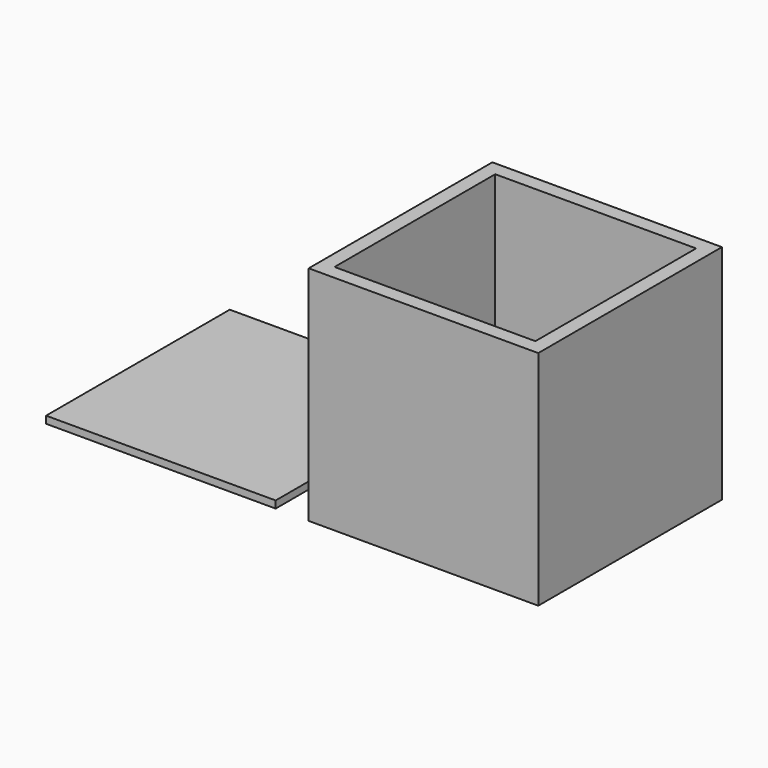
from build123d import *

# Parameters (mm, degrees)
F0_W     = 101.6
F0_H     = 101.6
F1_DEPTH = 3.175
F0_W_2   = 88.9
F0_H_2   = 88.9
F2_DEPTH = 98.425


with BuildPart() as f1:
    # F0 (on Top) → F1 (new body)
    with BuildSketch(Plane.XY):
        with Locations((-76.689121, 3.947296)):
            Rectangle(F0_W, F0_H)
    extrude(amount=F1_DEPTH)


with BuildPart() as f2:
    # F0 (on Top) → F2 (new body)
    with BuildSketch(Plane.XY):
        with Locations((39.584528, 3.886014)):
            Rectangle(F0_W, F0_H)
        with Locations((39.584528, 3.886014)):
            Rectangle(F0_W_2, F0_H_2, mode=Mode.SUBTRACT)
    extrude(amount=F2_DEPTH)


solid = Compound([f1.part, f2.part])
